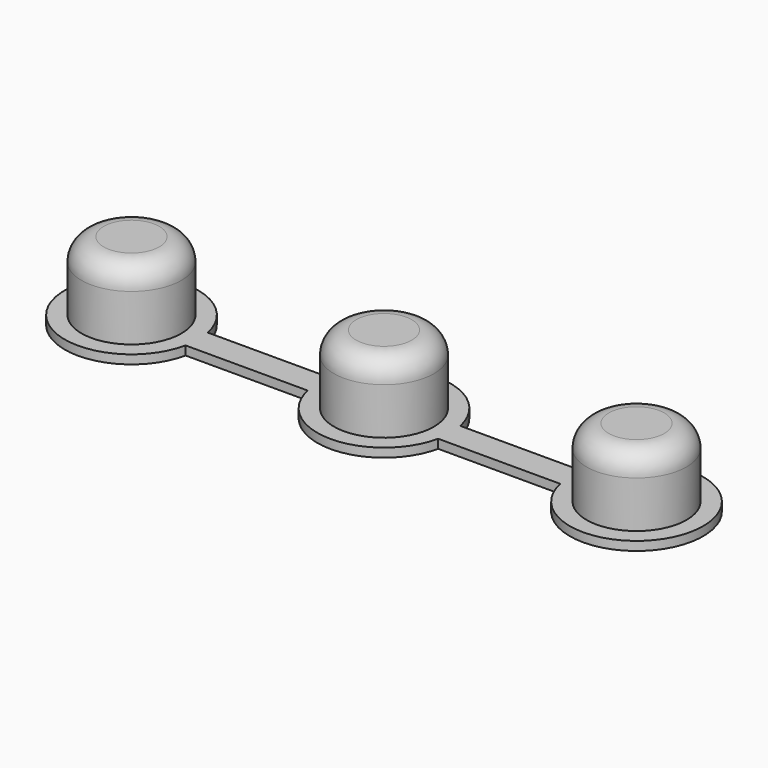
from build123d import *

# Parameters (mm, degrees)
PAD_DEPTH    = 0.4
SKETCH001_R  = 2.25
PAD001_DEPTH = 3.5
FILLET_R     = 1


with BuildPart() as part:
    # Sketch → Pad (new body)
    with BuildSketch(Plane.XY):
        with BuildLine():
            ThreePointArc((-2.745826, 0.625), (-8.68, 0), (-2.745826, -0.625))
            Line((-2.745826, -0.625), (2.745826, -0.625))
            ThreePointArc((2.745826, -0.625), (5.68, -3), (8.614174, -0.625))
            Line((8.614174, -0.625), (14.105826, -0.625))
            ThreePointArc((14.105826, -0.625), (20.04, 0), (14.105826, 0.625))
            Line((8.614174, 0.625), (14.105826, 0.625))
            ThreePointArc((8.614174, 0.625), (5.68, 3), (2.745826, 0.625))
            Line((-2.745826, 0.625), (2.745826, 0.625))
        make_face()
    extrude(amount=PAD_DEPTH)

    # Sketch001 → Pad001 (join)
    with BuildSketch(Plane.XY):
        with Locations((-5.68, 0)):
            Circle(SKETCH001_R)
        with Locations((5.68, 0)):
            Circle(SKETCH001_R)
        with Locations((17.04, 0)):
            Circle(SKETCH001_R)
    extrude(amount=PAD001_DEPTH)

    # Fillet
    fillet_edges = [part.edges().sort_by_distance(p)[0] for p in [
        (-7.93, 0, 3.5),
        (3.43, 0, 3.5),
        (14.79, 0, 3.5),
    ]]
    fillet(fillet_edges, radius=FILLET_R)


solid = part.part
